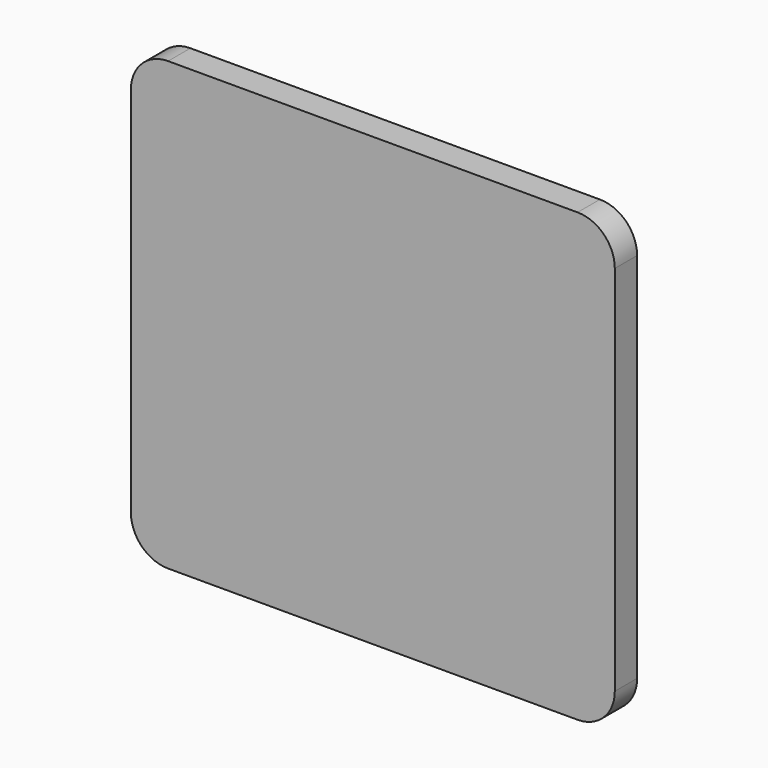
from build123d import *

# Parameters (mm, degrees)
F1_DEPTH = 19.05
F3_DEPTH = 12.7
F4_R     = 25.4
F5_R     = 25.4
F6_R     = 25.4
F7_R     = 25.4


with BuildPart() as f1:
    # F0 (on Front) → F1 (new body)
    with BuildSketch(Plane.XZ):
        Polygon((165.1, 163.4293), (0, 163.4293), (-165.1, 163.4293), (-165.1, -141.3707), (165.1, -141.3707), align=None)
    extrude(amount=F1_DEPTH)

    # F2 (on Front) → F3 (cut)
    with BuildSketch(Plane.XZ):
        Polygon((143.880641, -106.450708), (143.880641, 13.691292), (143.880641, 133.833292), (124.830641, 133.833292), (124.830641, 23.343292), (124.830641, 13.691292), (124.830641, 4.039292), (124.830641, -106.450708), align=None)
        Polygon((124.830641, 13.691292), (124.830641, 23.343292), (-124.830641, 23.343292), (-124.830641, 13.691292), (-124.830641, 4.039292), (124.830641, 4.039292), align=None)
        Polygon((-124.830641, 13.691292), (-124.830641, 23.343292), (-124.830641, 133.833292), (-143.880641, 133.833292), (-143.880641, 13.691292), (-143.880641, -106.450708), (-124.830641, -106.450708), (-124.830641, 4.039292), align=None)
    extrude(amount=F3_DEPTH, mode=Mode.SUBTRACT)

    # F4
    f4_edges = [f1.edges().sort_by_distance(p)[0] for p in [
        (165.1, -9.525, 163.4293),
    ]]
    fillet(f4_edges, radius=F4_R)

    # F5
    f5_edges = [f1.edges().sort_by_distance(p)[0] for p in [
        (165.1, -9.525, -141.3707),
    ]]
    fillet(f5_edges, radius=F5_R)

    # F6
    f6_edges = [f1.edges().sort_by_distance(p)[0] for p in [
        (-165.1, -9.525, -141.3707),
    ]]
    fillet(f6_edges, radius=F6_R)

    # F7
    f7_edges = [f1.edges().sort_by_distance(p)[0] for p in [
        (-165.1, -9.525, 163.4293),
    ]]
    fillet(f7_edges, radius=F7_R)


solid = f1.part
